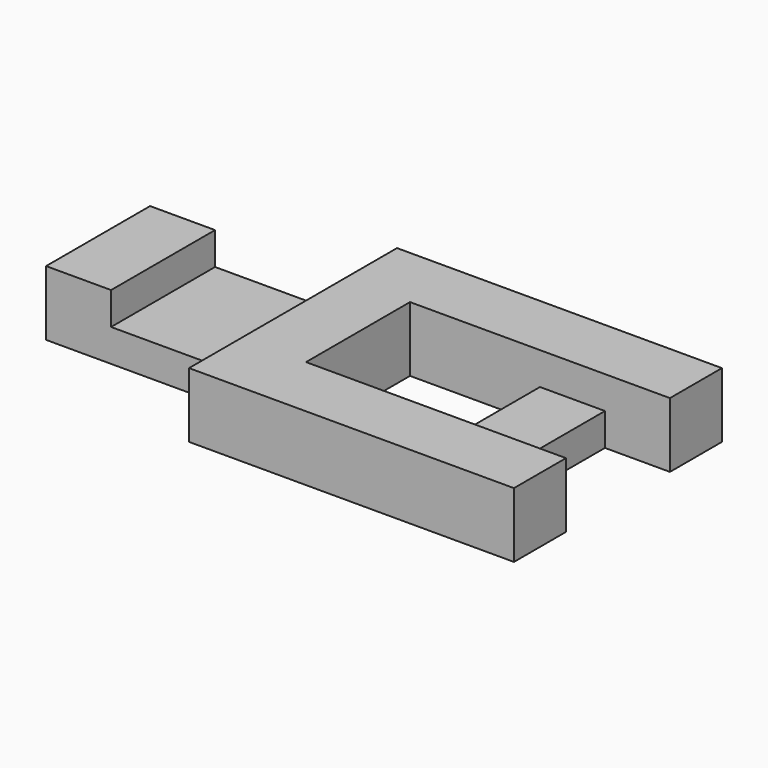
from build123d import *

# Parameters (mm, degrees)
F1_DEPTH  = 40
F3_DEPTH  = 10
F5_DEPTH  = 10
F6_W      = 10
F6_H      = 20
F7_DEPTH  = 25
F6_W_2    = 30
F8_DEPTH  = 5
F9_W      = 20
F9_H      = 20
F10_DEPTH = 25
F11_DEPTH = 10


with BuildPart() as f1:
    # F0 (on Front) → F1 (new body)
    with BuildSketch(Plane.XZ):
        Polygon((0, 10), (0, 0), (80, 0), (80, 10), (40, 10), (40, 5), (10, 5), (10, 10), align=None)
    extrude(amount=F1_DEPTH)

    # F2 (on face) → F3 (cut)
    with BuildSketch(Plane.XZ.offset(40)):
        Polygon((10, 10), (0, 10), (0, 0), (40, 0), (40, 5), (10, 5), align=None)
    extrude(amount=-F3_DEPTH, mode=Mode.SUBTRACT)

    # F4 (on face) → F5 (cut)
    with BuildSketch(Plane(origin=(0, 0, 0), x_dir=(-1, 0, 0), z_dir=(0, 1, 0))):
        Polygon((-40, 0), (0, 0), (0, 10), (-10, 10), (-10, 5), (-40, 5), align=None)
    extrude(amount=-F5_DEPTH, mode=Mode.SUBTRACT)

    # F6 (on face) → F7 (cut)
    with BuildSketch(Plane.XY.offset(10)):
        with Locations((75, -20)):
            Rectangle(F6_W, F6_H)
    extrude(amount=-F7_DEPTH, mode=Mode.SUBTRACT)

    # F6 (on face) → F8 (cut)
    with BuildSketch(Plane.XY.offset(10)):
        with Locations((55, -20)):
            Rectangle(F6_W_2, F6_H)
    extrude(amount=-F8_DEPTH, mode=Mode.SUBTRACT)

    # F9 (on face) → F10 (cut)
    with BuildSketch(Plane.XY.offset(10)):
        with Locations((50, -20)):
            Rectangle(F9_W, F9_H)
    extrude(amount=-F10_DEPTH, mode=Mode.SUBTRACT)

    # F9 (on face) → F11 (join)
    with BuildSketch(Plane.XY.offset(10)):
        Polygon((30, -40), (40, -40), (40, -30), (40, -10), (40, 0), (30, 0), align=None)
    extrude(amount=-F11_DEPTH)


solid = f1.part
